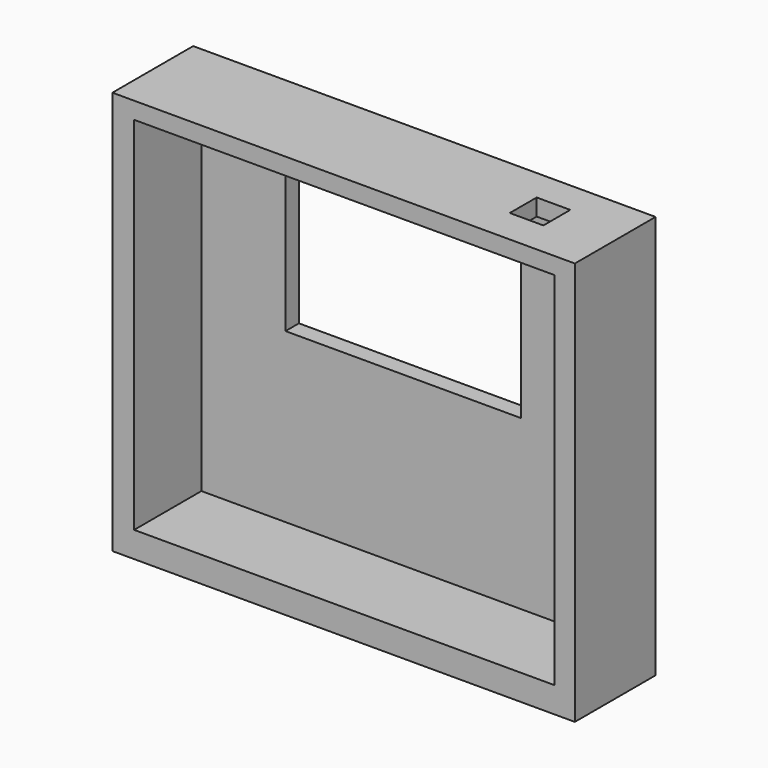
from build123d import *

# Parameters (mm, degrees)
F0_W     = 69.85
F0_H     = 60.96
F1_DEPTH = 15.24
F2_W     = 63.5
F2_H     = 54.530626
F3_DEPTH = 12.7
F4_W     = 5.08
F4_H     = 5.08
F5_DEPTH = 25.4
F7_DEPTH = 25.4


with BuildPart() as f1:
    # F0 (on Front) → F1 (new body)
    with BuildSketch(Plane.XZ):
        with Locations((9.194272, -19.248438)):
            Rectangle(F0_W, F0_H)
    extrude(amount=F1_DEPTH)

    # F2 (on face) → F3 (cut)
    with BuildSketch(Plane.XZ.offset(15.24)):
        with Locations((9.300105, -18.573751)):
            Rectangle(F2_W, F2_H)
    extrude(amount=-F3_DEPTH, mode=Mode.SUBTRACT)

    # F4 (on face) → F5 (cut)
    with BuildSketch(Plane.XY.offset(11.231562)):
        with Locations((32.606527, -7.426056)):
            Rectangle(F4_W, F4_H)
    extrude(amount=-F5_DEPTH, mode=Mode.SUBTRACT)

    # F6 (on face) → F7 (cut)
    with BuildSketch(Plane.XZ.offset(2.54)):
        Polygon((-9.749895, 3.611562), (-9.749895, -11.760729), (-9.749895, -20.439064), (25.836561, -20.439064), (25.836561, 3.611562), (9.300105, 3.611562), align=None)
    extrude(amount=-F7_DEPTH, mode=Mode.SUBTRACT)


solid = f1.part
